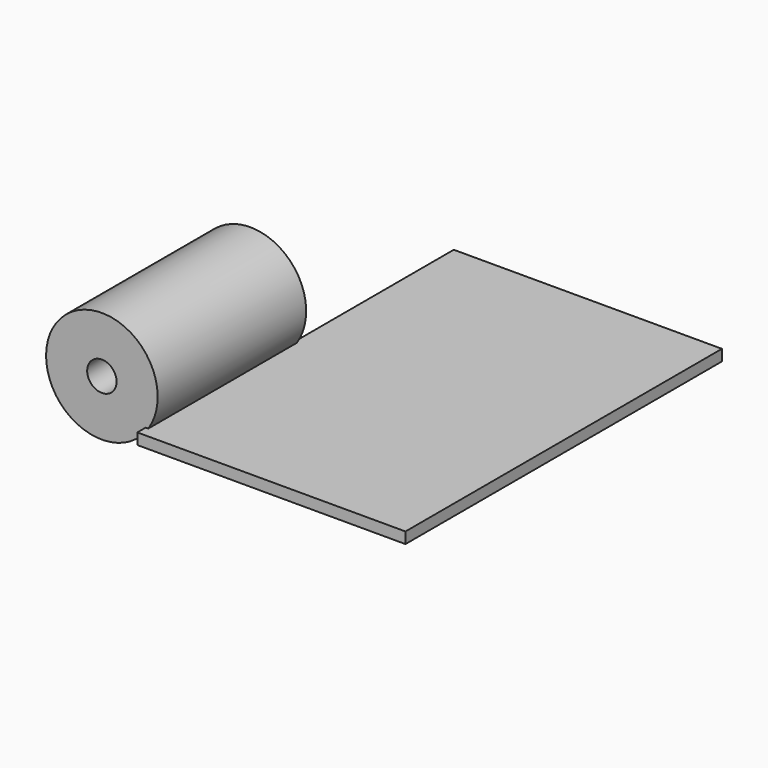
from build123d import *

# Parameters (mm, degrees)
F0_W     = 73.396001
F0_H     = 108.268451
F1_DEPTH = 3.048
F2_R     = 15.275412
F3_DEPTH = 50.8
F4_R     = 4.02928
F5_DEPTH = 50.8


with BuildPart() as f1:
    # F0 (on Top) → F1 (new body)
    with BuildSketch(Plane.XY):
        with Locations((31.130662, 0.470406)):
            Rectangle(F0_W, F0_H)
    extrude(amount=F1_DEPTH)

    # F2 (on Front) → F3 (join)
    with BuildSketch(Plane.XZ):
        with Locations((-17.556151, 11.512231)):
            Circle(F2_R)
    extrude(amount=F3_DEPTH)

    # F4 (on face) → F5 (cut)
    with BuildSketch(Plane.XZ.offset(50.8)):
        with Locations((-17.556151, 11.512231)):
            Circle(F4_R)
    extrude(amount=-F5_DEPTH, mode=Mode.SUBTRACT)


solid = f1.part
